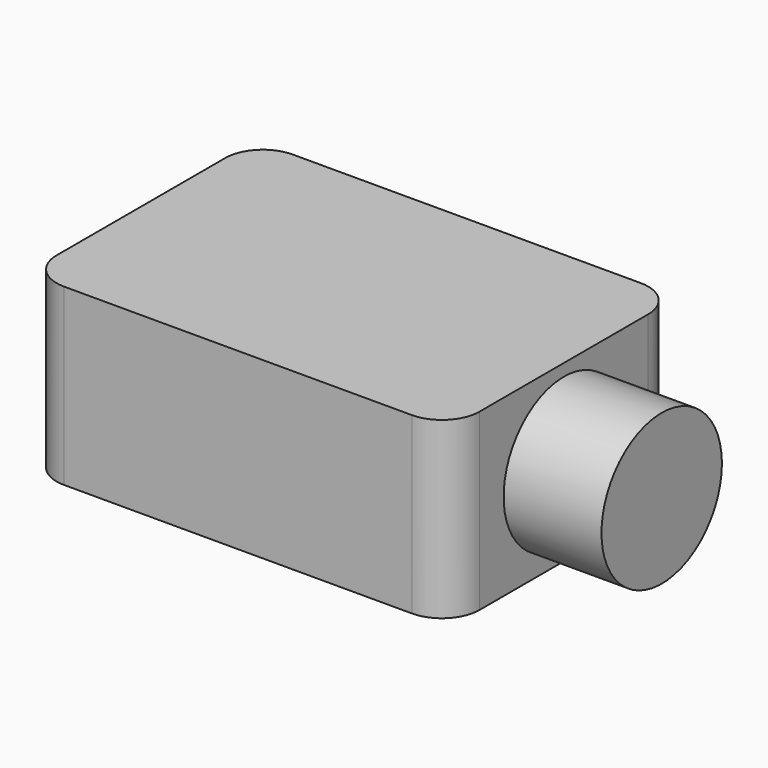
from build123d import *

# Parameters (mm, degrees)
F0_W     = 56.2
F0_H     = 38
F1_DEPTH = 23.2
F2_R     = 5
F3_R     = 10
F4_DEPTH = 13


with BuildPart() as f1:
    # F0 (on Top) → F1 (new body)
    with BuildSketch(Plane.XY):
        Rectangle(F0_W, F0_H)
    extrude(amount=F1_DEPTH)

    # F2
    f2_edges = [f1.edges().sort_by_distance(p)[0] for p in [
        (28.1, -19, 11.6),
        (28.1, 19, 11.6),
        (-28.1, 19, 11.6),
        (-28.1, -19, 11.6),
    ]]
    fillet(f2_edges, radius=F2_R)

    # F3 (on face) → F4 (join)
    with BuildSketch(Plane.YZ.offset(28.1)):
        with Locations((0, 11.6)):
            Circle(F3_R)
    extrude(amount=F4_DEPTH)


solid = f1.part
